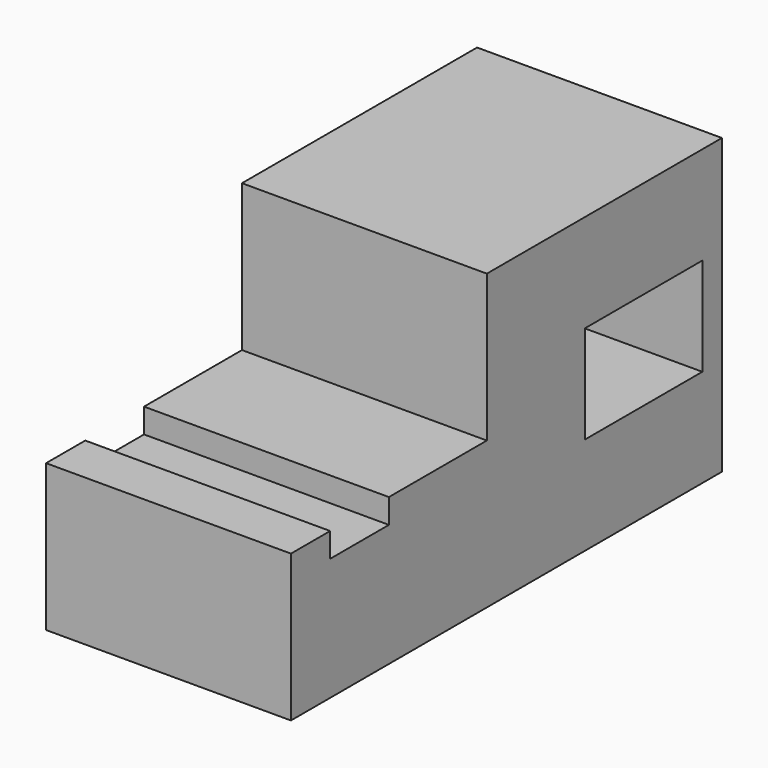
from build123d import *

# Parameters (mm, degrees)
F0_W     = 50
F0_H     = 110
F1_DEPTH = 60
F2_W     = 50
F2_H     = 50
F3_DEPTH = 30
F4_W     = 50
F4_H     = 15
F5_DEPTH = 5
F6_W     = 30
F6_H     = 20
F7_DEPTH = 92


with BuildPart() as f1:
    # F0 (on Top) → F1 (new body)
    with BuildSketch(Plane.XY):
        with Locations((3.536819, 18.06074)):
            Rectangle(F0_W, F0_H)
    extrude(amount=F1_DEPTH)

    # F2 (on face) → F3 (cut)
    with BuildSketch(Plane.XY.offset(60)):
        with Locations((3.536819, -11.93926)):
            Rectangle(F2_W, F2_H)
    extrude(amount=-F3_DEPTH, mode=Mode.SUBTRACT)

    # F4 (on face) → F5 (cut)
    with BuildSketch(Plane.XY.offset(30)):
        with Locations((3.536819, -19.43926)):
            Rectangle(F4_W, F4_H)
    extrude(amount=-F5_DEPTH, mode=Mode.SUBTRACT)

    # F6 (on face) → F7 (cut)
    with BuildSketch(Plane(origin=(-21.463181, 0, 0), x_dir=(0, -1, 0), z_dir=(-1, 0, 0))):
        with Locations((-53.06074, 30)):
            Rectangle(F6_W, F6_H)
    extrude(amount=-F7_DEPTH, mode=Mode.SUBTRACT)


solid = f1.part
